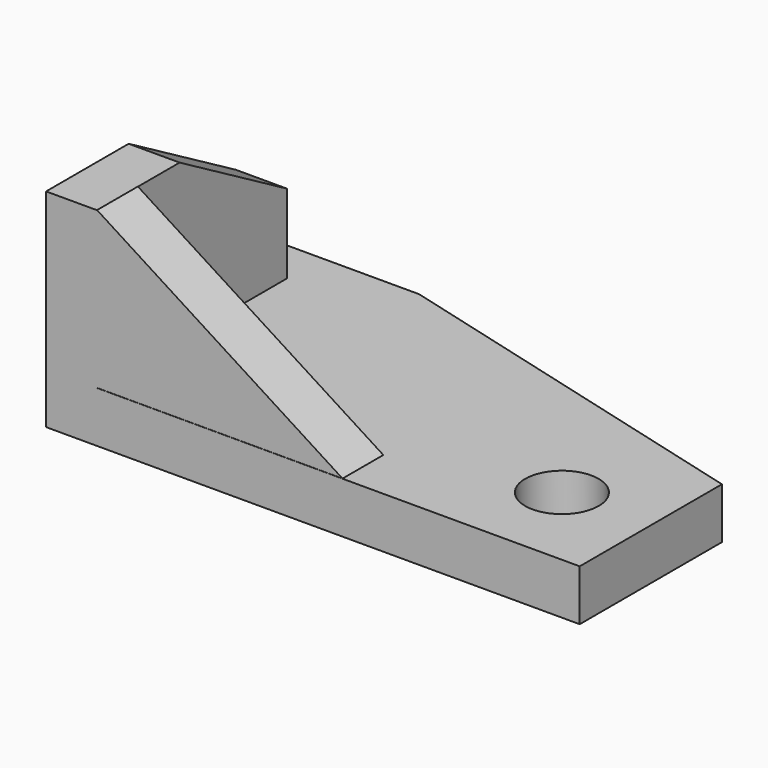
from build123d import *

# Parameters (mm, degrees)
F3_DEPTH = 10.922
F4_D     = 15.748
F5_DEPTH = 10.922
F6_DEPTH = 10.922


with BuildPart() as f3:
    # F0 (on Top) → F3 (new body)
    with BuildSketch(Plane.XY):
        Polygon((0, 60.198), (0, 0), (95.25, 0), (114.3, 0), (114.3, 38.0787941648), (31.75, 60.198), align=None)
    extrude(amount=F3_DEPTH)

    # F4 (through all)
    with Locations(Plane(origin=(0, 0, 0), x_dir=(1, 0, 0), z_dir=(0, 0, -1))):
        with Locations((95.25, -19.05)):
            Hole(F4_D / 2)

    # F1 (on Right) → F5 (join)
    with BuildSketch(Plane.YZ):
        Polygon((0, 44.45), (0, 0), (50.8, 0), (50.8, 27.8788925737), (22.098, 44.45), align=None)
    extrude(amount=F5_DEPTH)

    # F2 (on Front) → F6 (join)
    with BuildSketch(Plane.XZ):
        Polygon((63.5, 10.9534637303), (10.922, 44.4814637303), (10.922, 10.9534637303), align=None)
    extrude(amount=-F6_DEPTH)


solid = f3.part
